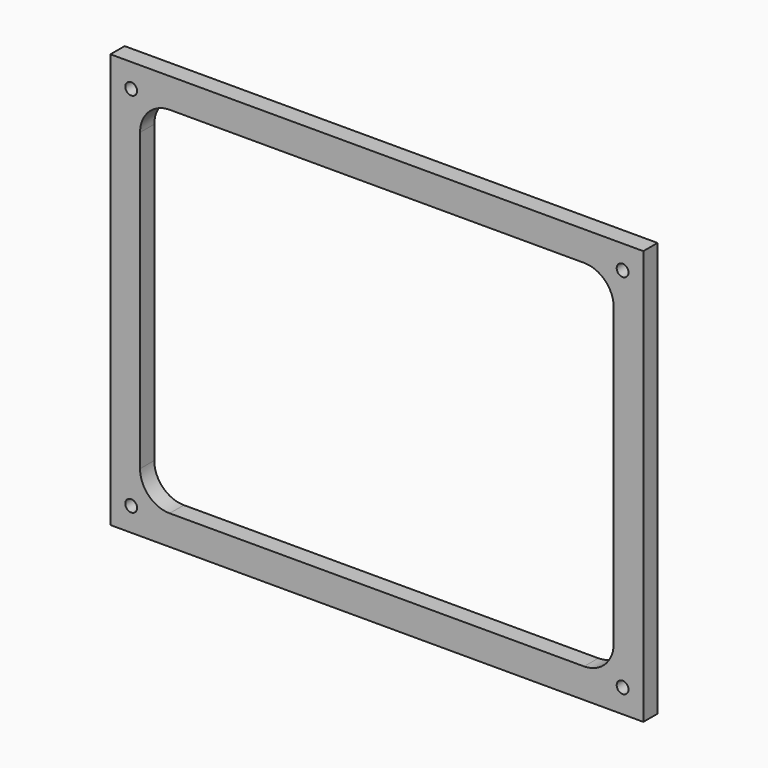
from build123d import *

# Parameters (mm, degrees)
F1_DEPTH = 6
F2_R     = 2
F3_DEPTH = 25


with BuildPart() as f1:
    # F0 (on Front) → F1 (new body)
    with BuildSketch(Plane.XZ):
        with BuildLine():
            Line((-90, 70), (-90, -70))
            Line((-90, -70), (90, -70))
            Line((90, -70), (90, 0))
            Line((90, 0), (80, 0))
            Line((80, 0), (80, -50))
            ThreePointArc((80, -50), (77.071068, -57.071068), (70, -60))
            Line((70, -60), (-70, -60))
            ThreePointArc((-70, -60), (-77.071068, -57.071068), (-80, -50))
            Line((-80, -50), (-80, 50))
            ThreePointArc((-80, 50), (-77.071068, 57.071068), (-70, 60))
            Line((-70, 60), (0, 60))
            Line((0, 60), (0, 70))
            Line((0, 70), (-90, 70))
        make_face()
        with BuildLine():
            Line((80, 0), (90, 0))
            Line((90, 0), (90, 70))
            Line((90, 70), (0, 70))
            Line((0, 70), (0, 60))
            Line((0, 60), (70, 60))
            ThreePointArc((70, 60), (77.071068, 57.071068), (80, 50))
            Line((80, 50), (80, 0))
        make_face()
    extrude(amount=F1_DEPTH)

    # F2 (on face) → F3 (cut)
    with BuildSketch(Plane.XZ.offset(6)):
        with Locations((-83, 62)):
            Circle(F2_R)
        with Locations((-83, -62)):
            Circle(F2_R)
        with Locations((83, -62)):
            Circle(F2_R)
        with Locations((83, 62)):
            Circle(F2_R)
    extrude(amount=-F3_DEPTH, mode=Mode.SUBTRACT)


solid = f1.part
